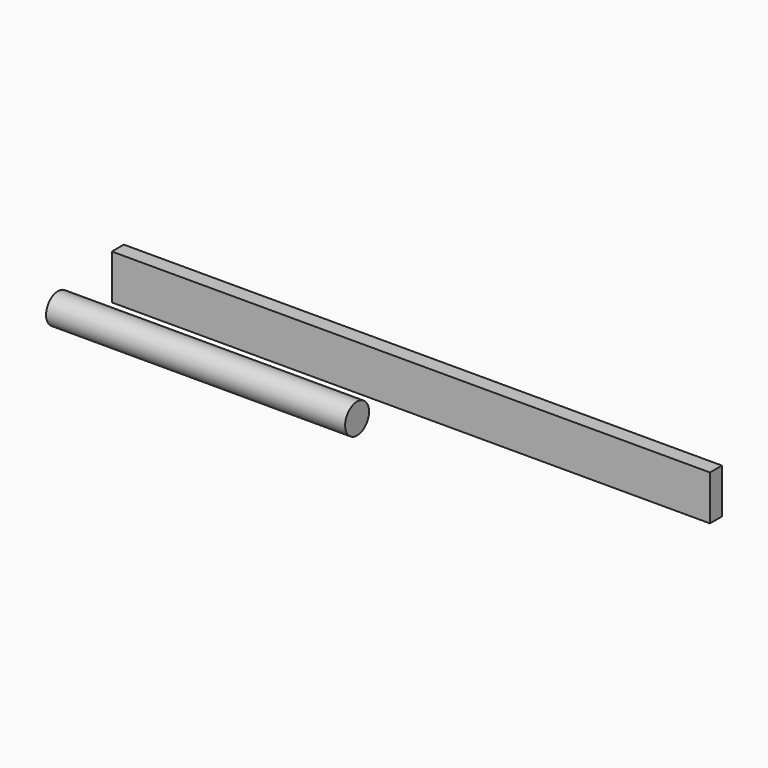
from build123d import *

# Parameters (mm, degrees)
F0_W     = 50
F0_H     = 150
F1_DEPTH = 2000
F2_R     = 50
F3_DEPTH = 1000


with BuildPart() as f1:
    # F0 (on Right) → F1 (new body)
    with BuildSketch(Plane.YZ):
        Rectangle(F0_W, F0_H)
    extrude(amount=F1_DEPTH)


with BuildPart() as f3:
    # F2 (on Right) → F3 (new body)
    with BuildSketch(Plane.YZ):
        with Locations((-250, 0)):
            Circle(F2_R)
    extrude(amount=F3_DEPTH)


solid = Compound([f1.part, f3.part])
